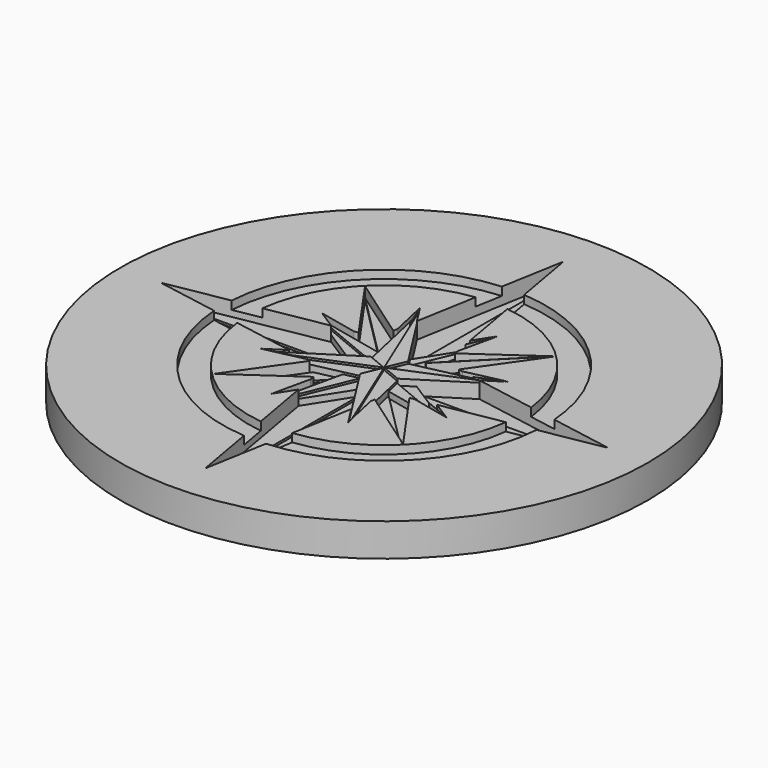
from build123d import *

# Parameters (mm, degrees)
SKETCH001_R     = 20
PAD_DEPTH       = 2.5
POCKET_DEPTH    = 1.25
POCKET001_DEPTH = 1.25
POCKET002_DEPTH = 1.25
POCKET003_DEPTH = 1.25
SKETCH005_R     = 1
POCKET004_DEPTH = 1.25
POCKET005_DEPTH = 1.09375
POCKET006_DEPTH = 1.09375
POCKET007_DEPTH = 1.09375
POCKET008_DEPTH = 1.09375
POCKET009_DEPTH = 1.09375
PAD001_DEPTH    = 0.3125
PAD002_DEPTH    = 0.625
PAD003_DEPTH    = 0.9375
PAD004_DEPTH    = 0.46875
PAD005_DEPTH    = 0.78125
PAD006_DEPTH    = 1.09375
SKETCH018_R     = 12.25
SKETCH018_R_2   = 10.25
POCKET010_DEPTH = 0.625


with BuildPart() as part:
    # Sketch001 (on DatumPlane) → Pad (new body)
    with BuildSketch(Plane.XY):
        Circle(SKETCH001_R)
    extrude(amount=-PAD_DEPTH)

    # Sketch (on DatumPlane) → Pocket (cut)
    with BuildSketch(Plane.XY):
        with BuildLine():
            add(Edge.make_bspline(
                [(-0.010293, 16.992643), (-2.550293, 2.599307)],
                knots=[0, 0, 172.626804, 172.626804], degree=1))
            add(Edge.make_bspline(
                [(-2.550293, 2.599307), (-0.010293, 0.059307)],
                knots=[0, 0, 42.426407, 42.426407], degree=1))
            add(Edge.make_bspline(
                [(-0.010293, 0.059307), (-0.010293, 16.992643)],
                knots=[0, 0, 200.00004, 200.00004], degree=1))
        make_face()
        with BuildLine():
            add(Edge.make_bspline(
                [(-0.013479, -16.96887), (2.526521, -2.575537)],
                knots=[0, 0, 172.626765, 172.626765], degree=1))
            add(Edge.make_bspline(
                [(2.526521, -2.575537), (-0.013479, -0.035537)],
                knots=[0, 0, 42.426407, 42.426407], degree=1))
            add(Edge.make_bspline(
                [(-0.013479, -0.035537), (-0.013479, -16.96887)],
                knots=[0, 0, 200, 200], degree=1))
        make_face()
        with BuildLine():
            add(Edge.make_bspline(
                [(16.968874, 0.010293), (2.575537, 2.550293)],
                knots=[0, 0, 172.626804, 172.626804], degree=1))
            add(Edge.make_bspline(
                [(2.575537, 2.550293), (0.035537, 0.010293)],
                knots=[0, 0, 42.426407, 42.426407], degree=1))
            add(Edge.make_bspline(
                [(0.035537, 0.010293), (16.968874, 0.010293)],
                knots=[0, 0, 200.00004, 200.00004], degree=1))
        make_face()
        with BuildLine():
            add(Edge.make_bspline(
                [(-16.992643, 0.013477), (-2.599307, -2.526523)],
                knots=[0, 0, 172.626804, 172.626804], degree=1))
            add(Edge.make_bspline(
                [(-2.599307, -2.526523), (-0.059307, 0.013477)],
                knots=[0, 0, 42.426407, 42.426407], degree=1))
            add(Edge.make_bspline(
                [(-0.059307, 0.013477), (-16.992643, 0.013477)],
                knots=[0, 0, 200.00004, 200.00004], degree=1))
        make_face()
    extrude(amount=-POCKET_DEPTH, mode=Mode.SUBTRACT)

    # Sketch002 (on DatumPlane) → Pocket001 (cut)
    with BuildSketch(Plane.XY):
        with BuildLine():
            add(Edge.make_bspline(
                [(7.191035, 7.213455), (0.008903, 2.185964)],
                knots=[0, 0, 103.546158, 103.546158], degree=1))
            add(Edge.make_bspline(
                [(0.008903, 2.185964), (0.008903, 0.031324)],
                knots=[0, 0, 25.4485, 25.4485], degree=1))
            add(Edge.make_bspline(
                [(0.008903, 0.031324), (7.191035, 7.213455)],
                knots=[0, 0, 119.965361, 119.965361], degree=1))
        make_face()
        with BuildLine():
            add(Edge.make_bspline(
                [(-7.214805, -7.189684), (-0.032675, -2.162194)],
                knots=[0, 0, 103.546135, 103.546135], degree=1))
            add(Edge.make_bspline(
                [(-0.032675, -2.162194), (-0.032675, -0.007555)],
                knots=[0, 0, 25.4485, 25.4485], degree=1))
            add(Edge.make_bspline(
                [(-0.032675, -0.007555), (-7.214805, -7.189684)],
                knots=[0, 0, 119.965337, 119.965337], degree=1))
        make_face()
        with BuildLine():
            add(Edge.make_bspline(
                [(7.189684, -7.191039), (2.162192, -0.008901)],
                knots=[0, 0, 103.54623, 103.54623], degree=1))
            add(Edge.make_bspline(
                [(2.162192, -0.008901), (0.007553, -0.008901)],
                knots=[0, 0, 25.44849, 25.44849], degree=1))
            add(Edge.make_bspline(
                [(0.007553, -0.008901), (7.189684, -7.191039)],
                knots=[0, 0, 119.965417, 119.965417], degree=1))
        make_face()
        with BuildLine():
            add(Edge.make_bspline(
                [(-7.213455, 7.214805), (-2.185963, 0.03267)],
                knots=[0, 0, 103.546197, 103.546197], degree=1))
            add(Edge.make_bspline(
                [(-2.185963, 0.03267), (-0.031324, 0.03267)],
                knots=[0, 0, 25.448492, 25.448492], degree=1))
            add(Edge.make_bspline(
                [(-0.031324, 0.03267), (-7.213455, 7.214805)],
                knots=[0, 0, 119.965391, 119.965391], degree=1))
        make_face()
    extrude(amount=-POCKET001_DEPTH, mode=Mode.SUBTRACT)

    # Sketch003 (on DatumPlane) → Pocket002 (cut)
    with BuildSketch(Plane.XY):
        with BuildLine():
            add(Edge.make_bspline(
                [(-7.066016, 2.934577), (-1.523597, -0.597418)],
                knots=[0, 0, 172.626804, 172.626804], degree=1))
            add(Edge.make_bspline(
                [(-1.523597, -0.597418), (-0.031311, 0.020707)],
                knots=[0, 0, 42.426407, 42.426407], degree=1))
            add(Edge.make_bspline(
                [(-0.031311, 0.020707), (-7.066016, 2.934577)],
                knots=[0, 0, 200.00004, 200.00004], degree=1))
        make_face()
        with BuildLine():
            add(Edge.make_bspline(
                [(7.042247, -2.910807), (1.499828, 0.621188)],
                knots=[0, 0, 172.626765, 172.626765], degree=1))
            add(Edge.make_bspline(
                [(1.499828, 0.621188), (0.007542, 0.003063)],
                knots=[0, 0, 42.426407, 42.426407], degree=1))
            add(Edge.make_bspline(
                [(0.007542, 0.003063), (7.042247, -2.910807)],
                knots=[0, 0, 200, 200], degree=1))
        make_face()
        with BuildLine():
            add(Edge.make_bspline(
                [(2.910808, 7.066018), (-0.621188, 1.523598)],
                knots=[0, 0, 172.626804, 172.626804], degree=1))
            add(Edge.make_bspline(
                [(-0.621188, 1.523598), (-0.003062, 0.031312)],
                knots=[0, 0, 42.426407, 42.426407], degree=1))
            add(Edge.make_bspline(
                [(-0.003062, 0.031312), (2.910808, 7.066018)],
                knots=[0, 0, 200.00004, 200.00004], degree=1))
        make_face()
        with BuildLine():
            add(Edge.make_bspline(
                [(-2.934576, -7.042247), (0.59742, -1.499828)],
                knots=[0, 0, 172.626804, 172.626804], degree=1))
            add(Edge.make_bspline(
                [(0.59742, -1.499828), (-0.020706, -0.007541)],
                knots=[0, 0, 42.426407, 42.426407], degree=1))
            add(Edge.make_bspline(
                [(-0.020706, -0.007541), (-2.934576, -7.042247)],
                knots=[0, 0, 200.00004, 200.00004], degree=1))
        make_face()
    extrude(amount=-POCKET002_DEPTH, mode=Mode.SUBTRACT)

    # Sketch004 (on DatumPlane) → Pocket003 (cut)
    with BuildSketch(Plane.XY):
        with BuildLine():
            add(Edge.make_bspline(
                [(-2.933253, 7.066566), (-1.511669, 0.649985)],
                knots=[0, 0, 172.626804, 172.626804], degree=1))
            add(Edge.make_bspline(
                [(-1.511669, 0.649985), (-0.019383, 0.03186)],
                knots=[0, 0, 42.426407, 42.426407], degree=1))
            add(Edge.make_bspline(
                [(-0.019383, 0.03186), (-2.933253, 7.066566)],
                knots=[0, 0, 200.00004, 200.00004], degree=1))
        make_face()
        with BuildLine():
            add(Edge.make_bspline(
                [(2.909484, -7.042794), (1.4879, -0.626215)],
                knots=[0, 0, 172.626765, 172.626765], degree=1))
            add(Edge.make_bspline(
                [(1.4879, -0.626215), (-0.004386, -0.00809)],
                knots=[0, 0, 42.426407, 42.426407], degree=1))
            add(Edge.make_bspline(
                [(-0.004386, -0.00809), (2.909484, -7.042794)],
                knots=[0, 0, 200, 200], degree=1))
        make_face()
        with BuildLine():
            add(Edge.make_bspline(
                [(7.042796, 2.933255), (0.626216, 1.511671)],
                knots=[0, 0, 172.626804, 172.626804], degree=1))
            add(Edge.make_bspline(
                [(0.626216, 1.511671), (0.008091, 0.019384)],
                knots=[0, 0, 42.426407, 42.426407], degree=1))
            add(Edge.make_bspline(
                [(0.008091, 0.019384), (7.042796, 2.933255)],
                knots=[0, 0, 200.00004, 200.00004], degree=1))
        make_face()
        with BuildLine():
            add(Edge.make_bspline(
                [(-7.066564, -2.909484), (-0.649984, -1.4879)],
                knots=[0, 0, 172.626804, 172.626804], degree=1))
            add(Edge.make_bspline(
                [(-0.649984, -1.4879), (-0.031858, 0.004386)],
                knots=[0, 0, 42.426407, 42.426407], degree=1))
            add(Edge.make_bspline(
                [(-0.031858, 0.004386), (-7.066564, -2.909484)],
                knots=[0, 0, 200.00004, 200.00004], degree=1))
        make_face()
    extrude(amount=-POCKET003_DEPTH, mode=Mode.SUBTRACT)

    # Sketch005 (on DatumPlane) → Pocket004 (cut)
    with BuildSketch(Plane.XY):
        Circle(SKETCH005_R)
    extrude(amount=-POCKET004_DEPTH, mode=Mode.SUBTRACT)

    # Sketch007 → Pocket005 (cut)
    with BuildSketch(Plane.XY):
        with BuildLine():
            add(Edge.make_bspline(
                [(-0.002479, 16.981643), (2.537521, 2.588307)],
                knots=[0, 0, 172.626805, 172.626805], degree=1))
            add(Edge.make_bspline(
                [(2.537521, 2.588307), (-0.002479, 0.048307)],
                knots=[0, 0, 42.426409, 42.426409], degree=1))
            add(Edge.make_bspline(
                [(-0.002479, 0.048307), (-0.002479, 16.981643)],
                knots=[0, 0, 200.00004, 200.00004], degree=1))
        make_face()
        with BuildLine():
            add(Edge.make_bspline(
                [(0.000707, -16.97987), (-2.539293, -2.586537)],
                knots=[0, 0, 172.626765, 172.626765], degree=1))
            add(Edge.make_bspline(
                [(-2.539293, -2.586537), (0.000707, -0.046537)],
                knots=[0, 0, 42.426407, 42.426407], degree=1))
            add(Edge.make_bspline(
                [(0.000707, -0.046537), (0.000707, -16.97987)],
                knots=[0, 0, 200, 200], degree=1))
        make_face()
        with BuildLine():
            add(Edge.make_bspline(
                [(16.979874, 0.002477), (2.586537, -2.537523)],
                knots=[0, 0, 172.626804, 172.626804], degree=1))
            add(Edge.make_bspline(
                [(2.586537, -2.537523), (0.046537, 0.002477)],
                knots=[0, 0, 42.426407, 42.426407], degree=1))
            add(Edge.make_bspline(
                [(0.046537, 0.002477), (16.979874, 0.002477)],
                knots=[0, 0, 200.00004, 200.00004], degree=1))
        make_face()
        with BuildLine():
            add(Edge.make_bspline(
                [(-16.981643, -0.000707), (-2.588307, 2.539293)],
                knots=[0, 0, 172.626804, 172.626804], degree=1))
            add(Edge.make_bspline(
                [(-2.588307, 2.539293), (-0.048307, -0.000707)],
                knots=[0, 0, 42.426407, 42.426407], degree=1))
            add(Edge.make_bspline(
                [(-0.048307, -0.000707), (-16.981643, -0.000707)],
                knots=[0, 0, 200.00004, 200.00004], degree=1))
        make_face()
    extrude(amount=-POCKET005_DEPTH, mode=Mode.SUBTRACT)

    # Sketch008 → Pocket006 (cut)
    with BuildSketch(Plane.XY):
        with BuildLine():
            add(Edge.make_bspline(
                [(7.200683, 7.203807), (2.173191, 0.021679)],
                knots=[0, 0, 103.546131, 103.546131], degree=1))
            add(Edge.make_bspline(
                [(2.173191, 0.021679), (0.018552, 0.021679)],
                knots=[0, 0, 25.44849, 25.44849], degree=1))
            add(Edge.make_bspline(
                [(0.018552, 0.021679), (7.200683, 7.203807)],
                knots=[0, 0, 119.965332, 119.965332], degree=1))
        make_face()
        with BuildLine():
            add(Edge.make_bspline(
                [(-7.202454, -7.20203), (-2.174963, -0.019901)],
                knots=[0, 0, 103.546138, 103.546138], degree=1))
            add(Edge.make_bspline(
                [(-2.174963, -0.019901), (-0.020324, -0.019901)],
                knots=[0, 0, 25.448492, 25.448492], degree=1))
            add(Edge.make_bspline(
                [(-0.020324, -0.019901), (-7.202454, -7.20203)],
                knots=[0, 0, 119.965337, 119.965337], degree=1))
        make_face()
        with BuildLine():
            add(Edge.make_bspline(
                [(7.202035, -7.200684), (0.019903, -2.173194)],
                knots=[0, 0, 103.546147, 103.546147], degree=1))
            add(Edge.make_bspline(
                [(0.019903, -2.173194), (0.019903, -0.018555)],
                knots=[0, 0, 25.4485, 25.4485], degree=1))
            add(Edge.make_bspline(
                [(0.019903, -0.018555), (7.202035, -7.200684)],
                knots=[0, 0, 119.965346, 119.965346], degree=1))
        make_face()
        with BuildLine():
            add(Edge.make_bspline(
                [(-7.203805, 7.202455), (-0.021674, 2.174964)],
                knots=[0, 0, 103.546161, 103.546161], degree=1))
            add(Edge.make_bspline(
                [(-0.021674, 2.174964), (-0.021674, 0.020324)],
                knots=[0, 0, 25.4485, 25.4485], degree=1))
            add(Edge.make_bspline(
                [(-0.021674, 0.020324), (-7.203805, 7.202455)],
                knots=[0, 0, 119.965363, 119.965363], degree=1))
        make_face()
    extrude(amount=-POCKET006_DEPTH, mode=Mode.SUBTRACT)

    # Sketch009 → Pocket007 (cut)
    with BuildSketch(Plane.XY):
        with BuildLine():
            add(Edge.make_bspline(
                [(-7.055565, 2.922254), (-0.638984, 1.500669)],
                knots=[0, 0, 172.626805, 172.626805], degree=1))
            add(Edge.make_bspline(
                [(-0.638984, 1.500669), (-0.020859, 0.008383)],
                knots=[0, 0, 42.426409, 42.426409], degree=1))
            add(Edge.make_bspline(
                [(-0.020859, 0.008383), (-7.055565, 2.922254)],
                knots=[0, 0, 200.00004, 200.00004], degree=1))
        make_face()
        with BuildLine():
            add(Edge.make_bspline(
                [(7.053795, -2.920484), (0.637216, -1.4989)],
                knots=[0, 0, 172.626765, 172.626765], degree=1))
            add(Edge.make_bspline(
                [(0.637216, -1.4989), (0.019091, -0.006614)],
                knots=[0, 0, 42.426407, 42.426407], degree=1))
            add(Edge.make_bspline(
                [(0.019091, -0.006614), (7.053795, -2.920484)],
                knots=[0, 0, 200, 200], degree=1))
        make_face()
        with BuildLine():
            add(Edge.make_bspline(
                [(2.920485, 7.055566), (1.498901, 0.638985)],
                knots=[0, 0, 172.626804, 172.626804], degree=1))
            add(Edge.make_bspline(
                [(1.498901, 0.638985), (0.006615, 0.02086)],
                knots=[0, 0, 42.426407, 42.426407], degree=1))
            add(Edge.make_bspline(
                [(0.006615, 0.02086), (2.920485, 7.055566)],
                knots=[0, 0, 200.00004, 200.00004], degree=1))
        make_face()
        with BuildLine():
            add(Edge.make_bspline(
                [(-2.922254, -7.053795), (-1.500669, -0.637214)],
                knots=[0, 0, 172.626804, 172.626804], degree=1))
            add(Edge.make_bspline(
                [(-1.500669, -0.637214), (-0.008383, -0.019089)],
                knots=[0, 0, 42.426407, 42.426407], degree=1))
            add(Edge.make_bspline(
                [(-0.008383, -0.019089), (-2.922254, -7.053795)],
                knots=[0, 0, 200.00004, 200.00004], degree=1))
        make_face()
    extrude(amount=-POCKET007_DEPTH, mode=Mode.SUBTRACT)

    # Sketch010 → Pocket008 (cut)
    with BuildSketch(Plane.XY):
        with BuildLine():
            add(Edge.make_bspline(
                [(-2.923577, 7.055017), (0.608419, 1.512598)],
                knots=[0, 0, 172.626805, 172.626805], degree=1))
            add(Edge.make_bspline(
                [(0.608419, 1.512598), (-0.009707, 0.020312)],
                knots=[0, 0, 42.426409, 42.426409], degree=1))
            add(Edge.make_bspline(
                [(-0.009707, 0.020312), (-2.923577, 7.055017)],
                knots=[0, 0, 200.00004, 200.00004], degree=1))
        make_face()
        with BuildLine():
            add(Edge.make_bspline(
                [(2.921808, -7.053246), (-0.610187, -1.510828)],
                knots=[0, 0, 172.626765, 172.626765], degree=1))
            add(Edge.make_bspline(
                [(-0.610187, -1.510828), (0.007938, -0.018541)],
                knots=[0, 0, 42.426407, 42.426407], degree=1))
            add(Edge.make_bspline(
                [(0.007938, -0.018541), (2.921808, -7.053246)],
                knots=[0, 0, 200, 200], degree=1))
        make_face()
        with BuildLine():
            add(Edge.make_bspline(
                [(7.053249, 2.923577), (1.510829, -0.608418)],
                knots=[0, 0, 172.626804, 172.626804], degree=1))
            add(Edge.make_bspline(
                [(1.510829, -0.608418), (0.018543, 0.009707)],
                knots=[0, 0, 42.426407, 42.426407], degree=1))
            add(Edge.make_bspline(
                [(0.018543, 0.009707), (7.053249, 2.923577)],
                knots=[0, 0, 200.00004, 200.00004], degree=1))
        make_face()
        with BuildLine():
            add(Edge.make_bspline(
                [(-7.055016, -2.921807), (-1.512597, 0.610189)],
                knots=[0, 0, 172.626804, 172.626804], degree=1))
            add(Edge.make_bspline(
                [(-1.512597, 0.610189), (-0.020311, -0.007936)],
                knots=[0, 0, 42.426407, 42.426407], degree=1))
            add(Edge.make_bspline(
                [(-0.020311, -0.007936), (-7.055016, -2.921807)],
                knots=[0, 0, 200.00004, 200.00004], degree=1))
        make_face()
    extrude(amount=-POCKET008_DEPTH, mode=Mode.SUBTRACT)

    # Sketch006 (on DatumPlane) → Pocket009 (cut)
    with BuildSketch(Plane.XY):
        Polygon((0, 16.889), (-0.707107, 0.707107), (-16.889, 0), (-0.707107, -0.707107), (0.707107, -0.707107), (16.889, 0), (0.707107, 0.707107), align=None)
    extrude(amount=-POCKET009_DEPTH, mode=Mode.SUBTRACT)

    # Sketch011 (on DatumPlane) → Pad001 (join)
    with BuildSketch(Plane.XY.offset(-1.25)):
        with BuildLine():
            add(Edge.make_bspline(
                [(7.191035, 7.213455), (0.008903, 2.185964)],
                knots=[0, 0, 103.546158, 103.546158], degree=1))
            add(Edge.make_bspline(
                [(0.008903, 2.185964), (0.008903, 0.031324)],
                knots=[0, 0, 25.4485, 25.4485], degree=1))
            add(Edge.make_bspline(
                [(0.008903, 0.031324), (7.191035, 7.213455)],
                knots=[0, 0, 119.965361, 119.965361], degree=1))
        make_face()
        with BuildLine():
            add(Edge.make_bspline(
                [(-7.214805, -7.189684), (-0.032675, -2.162194)],
                knots=[0, 0, 103.546135, 103.546135], degree=1))
            add(Edge.make_bspline(
                [(-0.032675, -2.162194), (-0.032675, -0.007555)],
                knots=[0, 0, 25.4485, 25.4485], degree=1))
            add(Edge.make_bspline(
                [(-0.032675, -0.007555), (-7.214805, -7.189684)],
                knots=[0, 0, 119.965337, 119.965337], degree=1))
        make_face()
        with BuildLine():
            add(Edge.make_bspline(
                [(7.189684, -7.191039), (2.162192, -0.008901)],
                knots=[0, 0, 103.54623, 103.54623], degree=1))
            add(Edge.make_bspline(
                [(2.162192, -0.008901), (0.007553, -0.008901)],
                knots=[0, 0, 25.44849, 25.44849], degree=1))
            add(Edge.make_bspline(
                [(0.007553, -0.008901), (7.189684, -7.191039)],
                knots=[0, 0, 119.965417, 119.965417], degree=1))
        make_face()
        with BuildLine():
            add(Edge.make_bspline(
                [(-7.213455, 7.214805), (-2.185963, 0.03267)],
                knots=[0, 0, 103.546197, 103.546197], degree=1))
            add(Edge.make_bspline(
                [(-2.185963, 0.03267), (-0.031324, 0.03267)],
                knots=[0, 0, 25.448492, 25.448492], degree=1))
            add(Edge.make_bspline(
                [(-0.031324, 0.03267), (-7.213455, 7.214805)],
                knots=[0, 0, 119.965391, 119.965391], degree=1))
        make_face()
    extrude(amount=PAD001_DEPTH)

    # Sketch012 (on DatumPlane) → Pad002 (join)
    with BuildSketch(Plane.XY.offset(-1.25)):
        with BuildLine():
            add(Edge.make_bspline(
                [(-7.066016, 2.934577), (-1.523597, -0.597418)],
                knots=[0, 0, 172.626804, 172.626804], degree=1))
            add(Edge.make_bspline(
                [(-1.523597, -0.597418), (-0.031311, 0.020707)],
                knots=[0, 0, 42.426407, 42.426407], degree=1))
            add(Edge.make_bspline(
                [(-0.031311, 0.020707), (-7.066016, 2.934577)],
                knots=[0, 0, 200.00004, 200.00004], degree=1))
        make_face()
        with BuildLine():
            add(Edge.make_bspline(
                [(7.042247, -2.910807), (1.499828, 0.621188)],
                knots=[0, 0, 172.626765, 172.626765], degree=1))
            add(Edge.make_bspline(
                [(1.499828, 0.621188), (0.007542, 0.003063)],
                knots=[0, 0, 42.426407, 42.426407], degree=1))
            add(Edge.make_bspline(
                [(0.007542, 0.003063), (7.042247, -2.910807)],
                knots=[0, 0, 200, 200], degree=1))
        make_face()
        with BuildLine():
            add(Edge.make_bspline(
                [(2.910808, 7.066018), (-0.621188, 1.523598)],
                knots=[0, 0, 172.626804, 172.626804], degree=1))
            add(Edge.make_bspline(
                [(-0.621188, 1.523598), (-0.003062, 0.031312)],
                knots=[0, 0, 42.426407, 42.426407], degree=1))
            add(Edge.make_bspline(
                [(-0.003062, 0.031312), (2.910808, 7.066018)],
                knots=[0, 0, 200.00004, 200.00004], degree=1))
        make_face()
        with BuildLine():
            add(Edge.make_bspline(
                [(-2.934576, -7.042247), (0.59742, -1.499828)],
                knots=[0, 0, 172.626804, 172.626804], degree=1))
            add(Edge.make_bspline(
                [(0.59742, -1.499828), (-0.020706, -0.007541)],
                knots=[0, 0, 42.426407, 42.426407], degree=1))
            add(Edge.make_bspline(
                [(-0.020706, -0.007541), (-2.934576, -7.042247)],
                knots=[0, 0, 200.00004, 200.00004], degree=1))
        make_face()
    extrude(amount=PAD002_DEPTH)

    # Sketch013 (on DatumPlane) → Pad003 (join)
    with BuildSketch(Plane.XY.offset(-1.25)):
        with BuildLine():
            add(Edge.make_bspline(
                [(-2.933253, 7.066566), (-1.511669, 0.649985)],
                knots=[0, 0, 172.626804, 172.626804], degree=1))
            add(Edge.make_bspline(
                [(-1.511669, 0.649985), (-0.019383, 0.03186)],
                knots=[0, 0, 42.426407, 42.426407], degree=1))
            add(Edge.make_bspline(
                [(-0.019383, 0.03186), (-2.933253, 7.066566)],
                knots=[0, 0, 200.00004, 200.00004], degree=1))
        make_face()
        with BuildLine():
            add(Edge.make_bspline(
                [(2.909484, -7.042794), (1.4879, -0.626215)],
                knots=[0, 0, 172.626765, 172.626765], degree=1))
            add(Edge.make_bspline(
                [(1.4879, -0.626215), (-0.004386, -0.00809)],
                knots=[0, 0, 42.426407, 42.426407], degree=1))
            add(Edge.make_bspline(
                [(-0.004386, -0.00809), (2.909484, -7.042794)],
                knots=[0, 0, 200, 200], degree=1))
        make_face()
        with BuildLine():
            add(Edge.make_bspline(
                [(7.042796, 2.933255), (0.626216, 1.511671)],
                knots=[0, 0, 172.626804, 172.626804], degree=1))
            add(Edge.make_bspline(
                [(0.626216, 1.511671), (0.008091, 0.019384)],
                knots=[0, 0, 42.426407, 42.426407], degree=1))
            add(Edge.make_bspline(
                [(0.008091, 0.019384), (7.042796, 2.933255)],
                knots=[0, 0, 200.00004, 200.00004], degree=1))
        make_face()
        with BuildLine():
            add(Edge.make_bspline(
                [(-7.066564, -2.909484), (-0.649984, -1.4879)],
                knots=[0, 0, 172.626804, 172.626804], degree=1))
            add(Edge.make_bspline(
                [(-0.649984, -1.4879), (-0.031858, 0.004386)],
                knots=[0, 0, 42.426407, 42.426407], degree=1))
            add(Edge.make_bspline(
                [(-0.031858, 0.004386), (-7.066564, -2.909484)],
                knots=[0, 0, 200.00004, 200.00004], degree=1))
        make_face()
    extrude(amount=PAD003_DEPTH)

    # Sketch015 (on DatumPlane) → Pad004 (join)
    with BuildSketch(Plane.XY.offset(-1.25)):
        with BuildLine():
            add(Edge.make_bspline(
                [(7.200683, 7.203807), (2.173191, 0.021679)],
                knots=[0, 0, 103.546131, 103.546131], degree=1))
            add(Edge.make_bspline(
                [(2.173191, 0.021679), (0.018552, 0.021679)],
                knots=[0, 0, 25.44849, 25.44849], degree=1))
            add(Edge.make_bspline(
                [(0.018552, 0.021679), (7.200683, 7.203807)],
                knots=[0, 0, 119.965332, 119.965332], degree=1))
        make_face()
        with BuildLine():
            add(Edge.make_bspline(
                [(-7.202454, -7.20203), (-2.174963, -0.019901)],
                knots=[0, 0, 103.546138, 103.546138], degree=1))
            add(Edge.make_bspline(
                [(-2.174963, -0.019901), (-0.020324, -0.019901)],
                knots=[0, 0, 25.448492, 25.448492], degree=1))
            add(Edge.make_bspline(
                [(-0.020324, -0.019901), (-7.202454, -7.20203)],
                knots=[0, 0, 119.965337, 119.965337], degree=1))
        make_face()
        with BuildLine():
            add(Edge.make_bspline(
                [(7.202035, -7.200684), (0.019903, -2.173194)],
                knots=[0, 0, 103.546147, 103.546147], degree=1))
            add(Edge.make_bspline(
                [(0.019903, -2.173194), (0.019903, -0.018555)],
                knots=[0, 0, 25.4485, 25.4485], degree=1))
            add(Edge.make_bspline(
                [(0.019903, -0.018555), (7.202035, -7.200684)],
                knots=[0, 0, 119.965346, 119.965346], degree=1))
        make_face()
        with BuildLine():
            add(Edge.make_bspline(
                [(-7.203805, 7.202455), (-0.021674, 2.174964)],
                knots=[0, 0, 103.546161, 103.546161], degree=1))
            add(Edge.make_bspline(
                [(-0.021674, 2.174964), (-0.021674, 0.020324)],
                knots=[0, 0, 25.4485, 25.4485], degree=1))
            add(Edge.make_bspline(
                [(-0.021674, 0.020324), (-7.203805, 7.202455)],
                knots=[0, 0, 119.965363, 119.965363], degree=1))
        make_face()
    extrude(amount=PAD004_DEPTH)

    # Sketch016 (on DatumPlane) → Pad005 (join)
    with BuildSketch(Plane.XY.offset(-1.25)):
        with BuildLine():
            add(Edge.make_bspline(
                [(-7.055565, 2.922254), (-0.638984, 1.500669)],
                knots=[0, 0, 172.626805, 172.626805], degree=1))
            add(Edge.make_bspline(
                [(-0.638984, 1.500669), (-0.020859, 0.008383)],
                knots=[0, 0, 42.426409, 42.426409], degree=1))
            add(Edge.make_bspline(
                [(-0.020859, 0.008383), (-7.055565, 2.922254)],
                knots=[0, 0, 200.00004, 200.00004], degree=1))
        make_face()
        with BuildLine():
            add(Edge.make_bspline(
                [(7.053795, -2.920484), (0.637216, -1.4989)],
                knots=[0, 0, 172.626765, 172.626765], degree=1))
            add(Edge.make_bspline(
                [(0.637216, -1.4989), (0.019091, -0.006614)],
                knots=[0, 0, 42.426407, 42.426407], degree=1))
            add(Edge.make_bspline(
                [(0.019091, -0.006614), (7.053795, -2.920484)],
                knots=[0, 0, 200, 200], degree=1))
        make_face()
        with BuildLine():
            add(Edge.make_bspline(
                [(2.920485, 7.055566), (1.498901, 0.638985)],
                knots=[0, 0, 172.626804, 172.626804], degree=1))
            add(Edge.make_bspline(
                [(1.498901, 0.638985), (0.006615, 0.02086)],
                knots=[0, 0, 42.426407, 42.426407], degree=1))
            add(Edge.make_bspline(
                [(0.006615, 0.02086), (2.920485, 7.055566)],
                knots=[0, 0, 200.00004, 200.00004], degree=1))
        make_face()
        with BuildLine():
            add(Edge.make_bspline(
                [(-2.922254, -7.053795), (-1.500669, -0.637214)],
                knots=[0, 0, 172.626804, 172.626804], degree=1))
            add(Edge.make_bspline(
                [(-1.500669, -0.637214), (-0.008383, -0.019089)],
                knots=[0, 0, 42.426407, 42.426407], degree=1))
            add(Edge.make_bspline(
                [(-0.008383, -0.019089), (-2.922254, -7.053795)],
                knots=[0, 0, 200.00004, 200.00004], degree=1))
        make_face()
    extrude(amount=PAD005_DEPTH)

    # Sketch017 (on DatumPlane) → Pad006 (join)
    with BuildSketch(Plane.XY.offset(-1.25)):
        with BuildLine():
            add(Edge.make_bspline(
                [(-2.923577, 7.055017), (0.608419, 1.512598)],
                knots=[0, 0, 172.626805, 172.626805], degree=1))
            add(Edge.make_bspline(
                [(0.608419, 1.512598), (-0.009707, 0.020312)],
                knots=[0, 0, 42.426409, 42.426409], degree=1))
            add(Edge.make_bspline(
                [(-0.009707, 0.020312), (-2.923577, 7.055017)],
                knots=[0, 0, 200.00004, 200.00004], degree=1))
        make_face()
        with BuildLine():
            add(Edge.make_bspline(
                [(2.921808, -7.053246), (-0.610187, -1.510828)],
                knots=[0, 0, 172.626765, 172.626765], degree=1))
            add(Edge.make_bspline(
                [(-0.610187, -1.510828), (0.007938, -0.018541)],
                knots=[0, 0, 42.426407, 42.426407], degree=1))
            add(Edge.make_bspline(
                [(0.007938, -0.018541), (2.921808, -7.053246)],
                knots=[0, 0, 200, 200], degree=1))
        make_face()
        with BuildLine():
            add(Edge.make_bspline(
                [(7.053249, 2.923577), (1.510829, -0.608418)],
                knots=[0, 0, 172.626804, 172.626804], degree=1))
            add(Edge.make_bspline(
                [(1.510829, -0.608418), (0.018543, 0.009707)],
                knots=[0, 0, 42.426407, 42.426407], degree=1))
            add(Edge.make_bspline(
                [(0.018543, 0.009707), (7.053249, 2.923577)],
                knots=[0, 0, 200.00004, 200.00004], degree=1))
        make_face()
        with BuildLine():
            add(Edge.make_bspline(
                [(-7.055016, -2.921807), (-1.512597, 0.610189)],
                knots=[0, 0, 172.626804, 172.626804], degree=1))
            add(Edge.make_bspline(
                [(-1.512597, 0.610189), (-0.020311, -0.007936)],
                knots=[0, 0, 42.426407, 42.426407], degree=1))
            add(Edge.make_bspline(
                [(-0.020311, -0.007936), (-7.055016, -2.921807)],
                knots=[0, 0, 200.00004, 200.00004], degree=1))
        make_face()
    extrude(amount=PAD006_DEPTH)

    # Sketch018 (on DatumPlane) → Pocket010 (cut)
    with BuildSketch(Plane.XY):
        Circle(SKETCH018_R)
        Circle(SKETCH018_R_2, mode=Mode.SUBTRACT)
    extrude(amount=-POCKET010_DEPTH, mode=Mode.SUBTRACT)


solid = part.part
